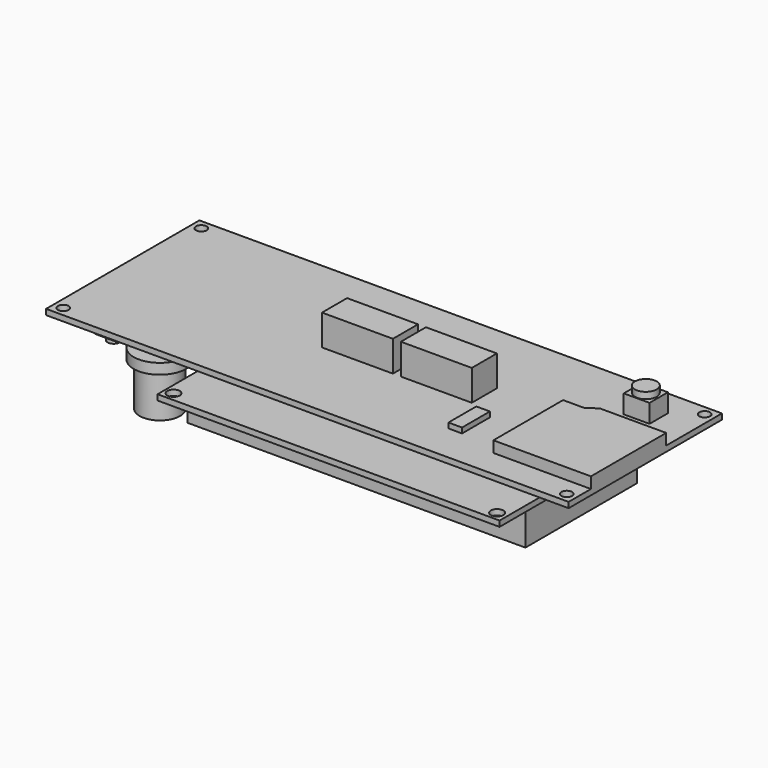
from build123d import *

# Parameters (mm, degrees)
F0_R      = 1.55
F0_W      = 3.9
F0_H      = 10
F0_W_2    = 20.36
F0_H_2    = 9
F0_W_3    = 7.4
F0_H_3    = 6.6
F0_R_2    = 3.125
F1_DEPTH  = 1.6
F2_DEPTH  = 8.81
F3_DEPTH  = 3.2
F4_DEPTH  = 1.5
F5_DEPTH  = 5.3
F6_R      = 3.125
F7_DEPTH  = 1.87
F8_R      = 5.88
F9_DEPTH  = 10
F10_W     = 13.8
F10_H     = 12
F11_DEPTH = 5.6
F12_R     = 3.4
F13_DEPTH = 8.4
F14_R     = 7.5
F14_R_2   = 3.4
F15_DEPTH = 3
F16_R     = 5.8
F17_DEPTH = 12.45
F10_W_2   = 6
F10_H_2   = 6
F10_R     = 1.75
F18_DEPTH = 3.5
F19_R     = 1.75
F20_DEPTH = 1.85
F22_W     = 40.3
F22_H     = 1.5
F23_DEPTH = 5.9
F22_W_2   = 98.17
F22_H_2   = 59.93
F22_R     = 1.8
F24_DEPTH = 1.6
F25_W     = 41
F25_H     = 1.7
F26_DEPTH = 4.4
F25_W_2   = 97
F25_H_2   = 40
F27_DEPTH = 9.5


with BuildPart() as f1:
    # F0 (on Top) → F1 (new body)
    with BuildSketch(Plane.XY):
        Polygon((0, 55), (0, 0), (150, 0), (150, 8), (122, 8), (122, 33), (128, 33), (131, 35), (150, 35), (150, 55), align=None)
        with Locations((2.75, 2.75)):
            Circle(F0_R, mode=Mode.SUBTRACT)
        with Locations((147.25, 2.75)):
            Circle(F0_R, mode=Mode.SUBTRACT)
        with Locations((108.65, 16)):
            Rectangle(F0_W, F0_H, mode=Mode.SUBTRACT)
        with Locations((70.18, 28.5)):
            Rectangle(F0_W_2, F0_H_2, mode=Mode.SUBTRACT)
        with Locations((2.75, 52.25)):
            Circle(F0_R, mode=Mode.SUBTRACT)
        with Locations((92.82, 28.5)):
            Rectangle(F0_W_2, F0_H_2, mode=Mode.SUBTRACT)
        with Locations((136.8, 44.2)):
            Rectangle(F0_W_3, F0_H_3, mode=Mode.SUBTRACT)
        with Locations((147.25, 52.25)):
            Circle(F0_R, mode=Mode.SUBTRACT)
        Polygon((122, 8), (150, 8), (150, 35), (131, 35), (128, 33), (122, 33), align=None)
        with Locations((70.18, 28.5)):
            Rectangle(F0_W_2, F0_H_2)
        with Locations((108.65, 16)):
            Rectangle(F0_W, F0_H)
        with Locations((136.8, 44.2)):
            Rectangle(F0_W_3, F0_H_3)
        with Locations((136.8, 44.2)):
            Circle(F0_R_2, mode=Mode.SUBTRACT)
        with Locations((136.8, 44.2)):
            Circle(F0_R_2)
        with Locations((92.82, 28.5)):
            Rectangle(F0_W_2, F0_H_2)
    extrude(amount=-F1_DEPTH)

    # F0 (on Top) → F2 (join)
    with BuildSketch(Plane.XY):
        with Locations((70.18, 28.5)):
            Rectangle(F0_W_2, F0_H_2)
        with Locations((92.82, 28.5)):
            Rectangle(F0_W_2, F0_H_2)
    extrude(amount=F2_DEPTH)

    # F0 (on Top) → F3 (join)
    with BuildSketch(Plane.XY):
        Polygon((122, 8), (150, 8), (150, 35), (131, 35), (128, 33), (122, 33), align=None)
    extrude(amount=F3_DEPTH)

    # F0 (on Top) → F4 (join)
    with BuildSketch(Plane.XY):
        with Locations((108.65, 16)):
            Rectangle(F0_W, F0_H)
    extrude(amount=F4_DEPTH)

    # F0 (on Top) → F5 (join)
    with BuildSketch(Plane.XY):
        with Locations((136.8, 44.2)):
            Rectangle(F0_W_3, F0_H_3)
        with Locations((136.8, 44.2)):
            Circle(F0_R_2, mode=Mode.SUBTRACT)
        with Locations((136.8, 44.2)):
            Circle(F0_R_2)
    extrude(amount=F5_DEPTH)

    # F6 (on face) → F7 (join)
    with BuildSketch(Plane.XY.offset(5.3)):
        with Locations((136.8, 44.2)):
            Circle(F6_R)
    extrude(amount=F7_DEPTH)

    # F8 (on face) → F9 (join)
    with BuildSketch(Plane(origin=(0, 0, -1.6), x_dir=(1, 0, 0), z_dir=(0, 0, -1))):
        with Locations((13.68, -44.82)):
            Circle(F8_R)
    extrude(amount=F9_DEPTH)

    # F10 (on face) → F11 (join)
    with BuildSketch(Plane(origin=(0, 0, -1.6), x_dir=(1, 0, 0), z_dir=(0, 0, -1))):
        with Locations((12.9, -24.7)):
            Rectangle(F10_W, F10_H)
    extrude(amount=F11_DEPTH)

    # F12 (on face) → F13 (join)
    with BuildSketch(Plane(origin=(0, 0, -7.2), x_dir=(1, 0, 0), z_dir=(0, 0, -1))):
        with Locations((12.9, -24.7)):
            Circle(F12_R)
    extrude(amount=F13_DEPTH)

    # F14 (on face) → F15 (join)
    with BuildSketch(Plane(origin=(0, 0, -15.6), x_dir=(1, 0, 0), z_dir=(0, 0, -1))):
        with Locations((12.9, -24.7)):
            Circle(F14_R)
        with Locations((12.9, -24.7)):
            Circle(F14_R_2, mode=Mode.SUBTRACT)
        with Locations((12.9, -24.7)):
            Circle(F14_R_2)
    extrude(amount=F15_DEPTH)

    # F16 (on face) → F17 (join)
    with BuildSketch(Plane(origin=(0, 0, -18.6), x_dir=(1, 0, 0), z_dir=(0, 0, -1))):
        with Locations((12.9, -24.7)):
            Circle(F16_R)
    extrude(amount=F17_DEPTH)

    # F10 (on face) → F18 (join)
    with BuildSketch(Plane(origin=(0, 0, -1.6), x_dir=(1, 0, 0), z_dir=(0, 0, -1))):
        with Locations((13, -8)):
            Rectangle(F10_W_2, F10_H_2)
        with Locations((13, -8)):
            Circle(F10_R, mode=Mode.SUBTRACT)
        with Locations((13, -8)):
            Circle(F10_R)
    extrude(amount=F18_DEPTH)

    # F19 (on face) → F20 (join)
    with BuildSketch(Plane(origin=(0, 0, -5.1), x_dir=(1, 0, 0), z_dir=(0, 0, -1))):
        with Locations((13, -8)):
            Circle(F19_R)
    extrude(amount=F20_DEPTH)

    # F22 (on offset) → F23 (join, through all)
    with BuildSketch(Plane(origin=(0, 0, -7.5), x_dir=(1, 0, 0), z_dir=(0, 0, -1))):
        with Locations((66.28, -50.28)):
            Rectangle(F22_W, F22_H)
    extrude(amount=-F23_DEPTH)

    # F22 (on offset) → F24 (join)
    with BuildSketch(Plane(origin=(0, 0, -7.5), x_dir=(1, 0, 0), z_dir=(0, 0, -1))):
        with Locations((87.415, -22.065)):
            Rectangle(F22_W_2, F22_H_2)
        with Locations((40.82, -49.59)):
            Circle(F22_R, mode=Mode.SUBTRACT)
        with Locations((66.28, -50.28)):
            Rectangle(F22_W, F22_H, mode=Mode.SUBTRACT)
        with Locations((133.7, -49.59)):
            Circle(F22_R, mode=Mode.SUBTRACT)
        with Locations((40.82, 5.3)):
            Circle(F22_R, mode=Mode.SUBTRACT)
        with Locations((133.7, 5.3)):
            Circle(F22_R, mode=Mode.SUBTRACT)
    extrude(amount=-F24_DEPTH)

    # F25 (on face) → F26 (join)
    with BuildSketch(Plane(origin=(0, 0, -7.5), x_dir=(1, 0, 0), z_dir=(0, 0, -1))):
        with Locations((106.7, -51.18)):
            Rectangle(F25_W, F25_H)
    extrude(amount=F26_DEPTH)

    # F25 (on face) → F27 (join)
    with BuildSketch(Plane(origin=(0, 0, -7.5), x_dir=(1, 0, 0), z_dir=(0, 0, -1))):
        with Locations((87.415, -22.1)):
            Rectangle(F25_W_2, F25_H_2)
    extrude(amount=F27_DEPTH)


solid = f1.part
